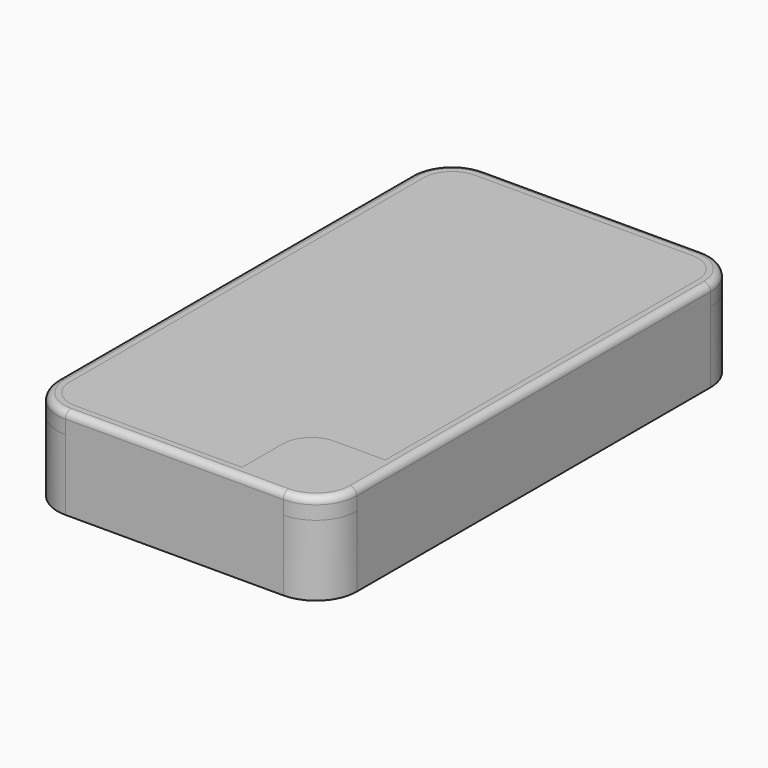
from build123d import *

# Parameters (mm, degrees)
F0_W          = 35.2
F0_H          = 68.2
F1_DEPTH      = 10
F2_W          = 6.5
F2_H          = 14
F3_DEPTH      = 0.5
F4_W          = 44
F4_H          = 77
F4_W_2        = 39.2
F4_H_2        = 72.2
F5_DEPTH      = 10.2
F5_DEPTH_BACK = 0.2
F6_R          = 6
F8_DEPTH      = 3
F10_DEPTH     = 2
F12_DEPTH     = 2
F13_DEPTH     = 2
F14_R         = 1


with BuildPart() as f1:
    # F0 (on Top) → F1 (new body)
    with BuildSketch(Plane.XY):
        Rectangle(F0_W, F0_H)
    extrude(amount=F1_DEPTH)

    # F2 (on face) → F3 (cut)
    with BuildSketch(Plane.XY.offset(10)):
        with Locations((13.35, -26)):
            Rectangle(F2_W, F2_H)
    extrude(amount=-F3_DEPTH, mode=Mode.SUBTRACT)


with BuildPart() as f5:
    # F4 (on face) → F5 (new body, two sides)
    with BuildSketch(Plane.XY.offset(10)) as f5_sk:
        Rectangle(F4_W, F4_H)
        Rectangle(F4_W_2, F4_H_2, mode=Mode.SUBTRACT)
    extrude(amount=-F5_DEPTH)
    extrude(f5_sk.sketch, amount=F5_DEPTH_BACK)

    # F6
    f6_edges = [f5.edges().sort_by_distance(p)[0] for p in [
        (-22, 38.5, 5),
        (22, 38.5, 5),
        (22, -38.5, 5),
        (-22, -38.5, 5),
    ]]
    fillet(f6_edges, radius=F6_R)

    # F7 (on face) → F8 (join)
    with BuildSketch(Plane.XY.offset(10.2)):
        with BuildLine():
            ThreePointArc((-16, 38.5), (-20.2426406871, 36.7426406871), (-22, 32.5))
            Line((-22, 32.5), (-22, -32.5))
            ThreePointArc((-22, -32.5), (-20.2426406871, -36.7426406871), (-16, -38.5))
            Line((-16, -38.5), (16, -38.5))
            ThreePointArc((16, -38.5), (20.2426406871, -36.7426406871), (22, -32.5))
            Line((22, -32.5), (22, 32.5))
            ThreePointArc((22, 32.5), (20.2426406871, 36.7426406871), (16, 38.5))
            Line((16, 38.5), (-16, 38.5))
        make_face()
    extrude(amount=F8_DEPTH)

    # F9 (on face) → F10 (cut)
    with BuildSketch(Plane.XY.offset(13.2)):
        with BuildLine():
            ThreePointArc((20.2, 32.5), (18.969848481, 35.469848481), (16, 36.7))
            Line((16, 36.7), (-16, 36.7))
            ThreePointArc((-16, 36.7), (-18.969848481, 35.469848481), (-20.2, 32.5))
            Line((-20.2, 32.5), (-20.2, -32.5))
            ThreePointArc((-20.2, -32.5), (-18.969848481, -35.469848481), (-16, -36.7))
            Line((-16, -36.7), (16, -36.7))
            ThreePointArc((16, -36.7), (18.969848481, -35.469848481), (20.2, -32.5))
            Line((20.2, -32.5), (20.2, 32.5))
        make_face()
    extrude(amount=-F10_DEPTH, mode=Mode.SUBTRACT)

    # F11 (on face) → F12 (join, through all)
    with BuildSketch(Plane.XY.offset(11.2)):
        with BuildLine():
            Line((8.5, -29.2), (8.5, -36.7))
            Line((8.5, -36.7), (16, -36.7))
            ThreePointArc((16, -36.7), (18.969848481, -35.469848481), (20.2, -32.5))
            Line((20.2, -32.5), (20.2, -25))
            Line((20.2, -25), (12.7, -25))
            ThreePointArc((12.7, -25), (9.730151519, -26.230151519), (8.5, -29.2))
        make_face()
    extrude(amount=F12_DEPTH)


with BuildPart() as f13:
    # F13 (new): a face of the model
    f13_faces = [f5.part.faces().sort_by_distance(p)[0] for p in [
        (-0.65784899, 1.4142607206, 11.2),
    ]]
    extrude(f13_faces, amount=F13_DEPTH)


with BuildPart() as f5_1:
    add(f5.part)

    # F14
    f14_edges = [f5_1.edges().sort_by_distance(p)[0] for p in [
        (-22, 0, 13.2),
    ]]
    fillet(f14_edges, radius=F14_R)


solid = Compound([f1.part, f13.part, f5_1.part])
